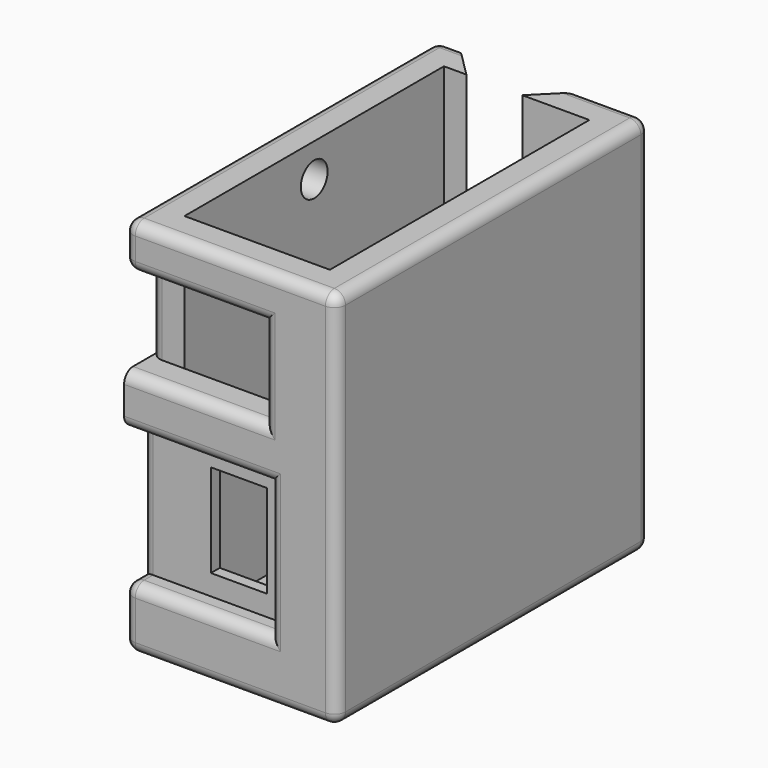
from build123d import *

# Parameters (mm, degrees)
SKETCH_W        = 19
SKETCH_H        = 35
PAD_DEPTH       = 2
SKETCH001_W     = 19
SKETCH001_H     = 35
SKETCH001_W_2   = 13
SKETCH001_H_2   = 29
PAD001_DEPTH    = 32
SKETCH002_W     = 12.5
SKETCH002_H     = 8
POCKET_DEPTH    = 3
FILLET_R        = 1
SKETCH003_W     = 13
SKETCH003_H     = 12
POCKET001_DEPTH = 2
SKETCH004_W     = 5
SKETCH004_H     = 8.323044
POCKET002_DEPTH = 1
SKETCH005_W     = 5
SKETCH005_H     = 12
POCKET003_DEPTH = 3
CHAMFER_SIZE    = 2.999
FILLET001_R     = 1
FILLET002_R     = 1
FILLET003_R     = 1
FILLET004_R     = 1
FILLET005_R     = 1
FILLET006_R     = 1
FILLET007_R     = 1
FILLET008_R     = 1
FILLET009_R     = 1
CHAMFER001_SIZE = 2.999
SKETCH006_R     = 1.5
POCKET004_DEPTH = 5


with BuildPart() as part:
    # Sketch → Pad (new body)
    with BuildSketch(Plane.XY):
        Rectangle(SKETCH_W, SKETCH_H)
    extrude(amount=PAD_DEPTH)

    # Sketch001 (on Face6 of Pad) → Pad001 (join)
    with BuildSketch(Plane.XY.offset(2)):
        Rectangle(SKETCH001_W, SKETCH001_H)
        Rectangle(SKETCH001_W_2, SKETCH001_H_2, mode=Mode.SUBTRACT)
    extrude(amount=PAD001_DEPTH)

    # Sketch002 (on Face10 of Pad001) → Pocket (cut)
    with BuildSketch(Plane.XZ.offset(17.5)):
        with Locations((-3.25, 26)):
            Rectangle(SKETCH002_W, SKETCH002_H)
    extrude(amount=-POCKET_DEPTH, mode=Mode.SUBTRACT)

    # Fillet
    fillet_edges = [part.edges().sort_by_distance(p)[0] for p in [
        (3, -17.5, 26),
        (-3.25, -17.5, 30),
        (-3.25, -17.5, 22),
    ]]
    fillet(fillet_edges, radius=FILLET_R)

    # Sketch003 (on Face2 of Fillet) → Pocket001 (cut)
    with BuildSketch(Plane.XZ.offset(17.5)):
        with Locations((-3, 11.5)):
            Rectangle(SKETCH003_W, SKETCH003_H)
    extrude(amount=-POCKET001_DEPTH, mode=Mode.SUBTRACT)

    # Sketch004 (on Face9 of Pocket001) → Pocket002 (cut)
    with BuildSketch(Plane.XZ.offset(15.5)):
        with Locations((-0.838478, 11.5)):
            Rectangle(SKETCH004_W, SKETCH004_H)
    extrude(amount=-POCKET002_DEPTH, mode=Mode.SUBTRACT)

    # Sketch005 (on Face12 of Pocket002) → Pocket003 (cut)
    with BuildSketch(Plane(origin=(0, 17.5, 0), x_dir=(-1, 0, 0), z_dir=(0, 1, 0))):
        with Locations((2, 28)):
            Rectangle(SKETCH005_W, SKETCH005_H)
    extrude(amount=-POCKET003_DEPTH, mode=Mode.SUBTRACT)

    # Chamfer
    chamfer_edges = [part.edges().sort_by_distance(p)[0] for p in [
        (0.5, 17.5, 28),
        (-4.5, 17.5, 28),
    ]]
    chamfer(chamfer_edges, length=CHAMFER_SIZE)

    # Fillet001
    fillet001_edges = [part.edges().sort_by_distance(p)[0] for p in [
        (-3, -17.5, 17.5),
        (3.5, -17.5, 11.5),
        (-3, -17.5, 5.5),
    ]]
    fillet(fillet001_edges, radius=FILLET001_R)

    # Fillet002
    fillet002_edges = [part.edges().sort_by_distance(p)[0] for p in [
        (0, -17.5, 0),
    ]]
    fillet(fillet002_edges, radius=FILLET002_R)

    # Fillet003
    fillet003_edges = [part.edges().sort_by_distance(p)[0] for p in [
        (9.5, 0.5, 0),
    ]]
    fillet(fillet003_edges, radius=FILLET003_R)

    # Fillet004
    fillet004_edges = [part.edges().sort_by_distance(p)[0] for p in [
        (-0.5, 17.5, 0),
    ]]
    fillet(fillet004_edges, radius=FILLET004_R)

    # Fillet005
    fillet005_edges = [part.edges().sort_by_distance(p)[0] for p in [
        (-9.5, 0, 0),
    ]]
    fillet(fillet005_edges, radius=FILLET005_R)

    # Fillet006
    fillet006_edges = [part.edges().sort_by_distance(p)[0] for p in [
        (-0.5, -17.5, 34),
    ]]
    fillet(fillet006_edges, radius=FILLET006_R)

    # Fillet007
    fillet007_edges = [part.edges().sort_by_distance(p)[0] for p in [
        (-9.5, 0, 34),
    ]]
    fillet(fillet007_edges, radius=FILLET007_R)

    # Fillet008
    fillet008_edges = [part.edges().sort_by_distance(p)[0] for p in [
        (-9.5, -15.5, 11.5),
    ]]
    fillet(fillet008_edges, radius=FILLET008_R)

    # Fillet009
    fillet009_edges = [part.edges().sort_by_distance(p)[0] for p in [
        (-9.5, -14.5, 26),
    ]]
    fillet(fillet009_edges, radius=FILLET009_R)

    # Chamfer001
    chamfer001_edges = [part.edges().sort_by_distance(p)[0] for p in [
        (-2, 17.5, 22),
    ]]
    chamfer(chamfer001_edges, length=CHAMFER001_SIZE)

    # Sketch006 (on Face16 of Chamfer001) → Pocket004 (cut)
    with BuildSketch(Plane(origin=(-9.5, 0, 0), x_dir=(0, -1, 0), z_dir=(-1, 0, 0))):
        with Locations((0, 31)):
            Circle(SKETCH006_R)
    extrude(amount=-POCKET004_DEPTH, mode=Mode.SUBTRACT)


solid = part.part
